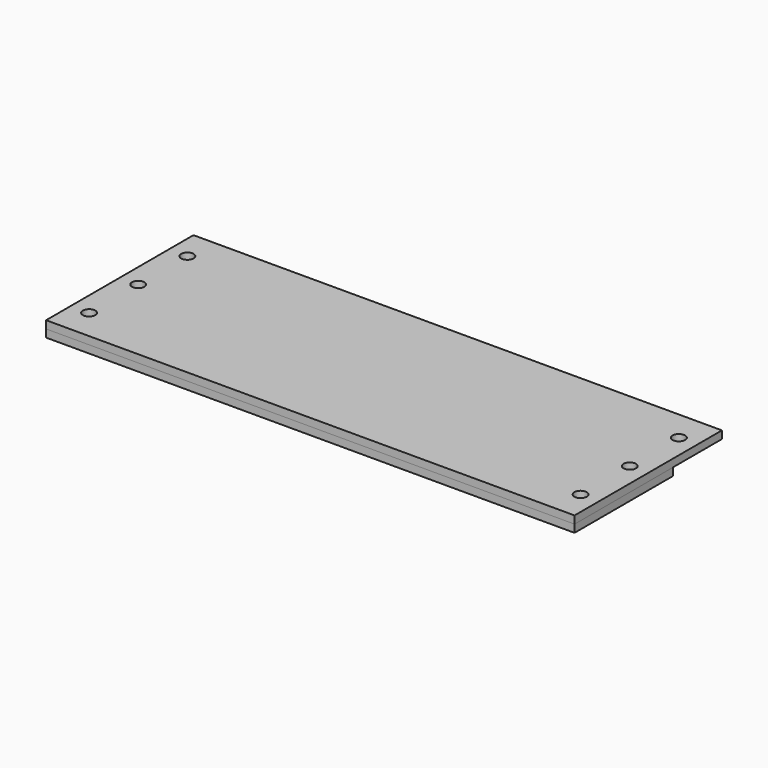
from build123d import *

# Parameters (mm, degrees)
F0_W     = 218.6178
F0_H     = 50.8
F0_R     = 2.5781
F1_DEPTH = 3.175
F2_START = 3.175
F0_H_2   = 25.4
F2_DEPTH = 3.175


with BuildPart() as f1:
    # F0 (on Top) → F1 (new body)
    with BuildSketch(Plane.XY):
        with Locations((-5.3424164653, -12.7)):
            Rectangle(F0_W, F0_H)
        with Locations((-107.0109964653, -25.4)):
            Circle(F0_R, mode=Mode.SUBTRACT)
        with Locations((96.3261635347, -25.4)):
            Circle(F0_R, mode=Mode.SUBTRACT)
        with Locations((-107.0109964653, 0)):
            Circle(F0_R, mode=Mode.SUBTRACT)
        with Locations((96.3261635347, 0)):
            Circle(F0_R, mode=Mode.SUBTRACT)
    extrude(amount=F1_DEPTH)


with BuildPart() as f2:
    # F0 (on Top) → F2 (new body)
    with BuildSketch(Plane.XY.offset(F2_START)):
        with Locations((-5.3424164653, -12.7)):
            Rectangle(F0_W, F0_H)
        with Locations((-107.0109964653, -25.4)):
            Circle(F0_R, mode=Mode.SUBTRACT)
        with Locations((96.3261635347, -25.4)):
            Circle(F0_R, mode=Mode.SUBTRACT)
        with Locations((-107.0109964653, 0)):
            Circle(F0_R, mode=Mode.SUBTRACT)
        with Locations((96.3261635347, 0)):
            Circle(F0_R, mode=Mode.SUBTRACT)
        with Locations((-5.3424164653, 25.4)):
            Rectangle(F0_W, F0_H_2)
        with Locations((-107.0109964653, 25.4)):
            Circle(F0_R, mode=Mode.SUBTRACT)
        with Locations((96.3261635347, 25.4)):
            Circle(F0_R, mode=Mode.SUBTRACT)
    extrude(amount=F2_DEPTH)


solid = Compound([f1.part, f2.part])
